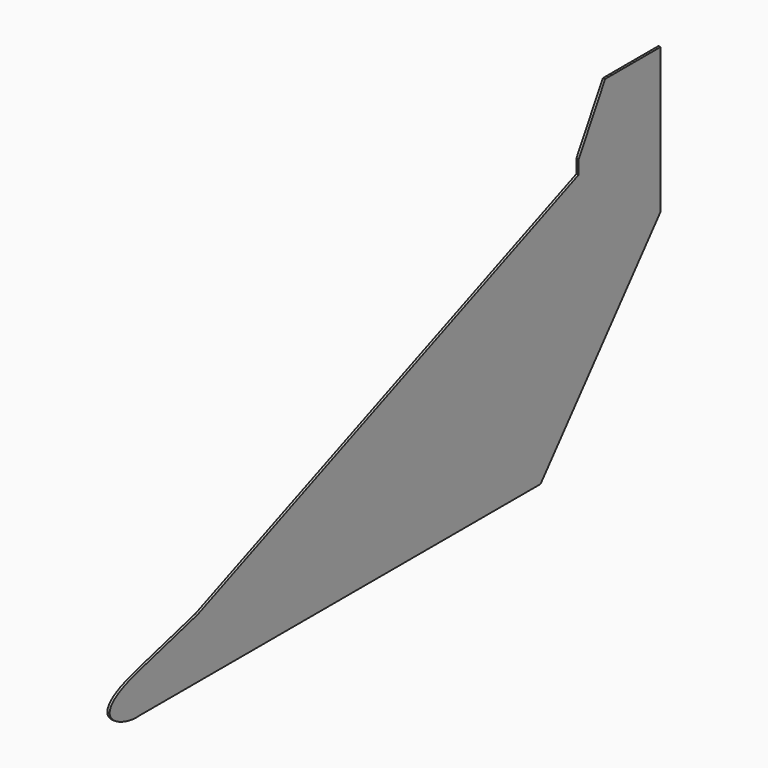
from build123d import *

# Parameters (mm, degrees)
PAD_DEPTH = 1.5


with BuildPart() as part:
    # CopySketch003 → Pad (new body)
    with BuildSketch(Plane.YZ):
        with BuildLine():
            Line((130.835557, 163.989908), (-177.902788, 38.529567))
            Line((-177.902788, 38.529567), (-226.199079, 25.588615))
            add(Edge.make_bspline(
                [(-225, 0), (-241.014422, -1.461855), (-270.021739, 13.743032), (-226.199079, 25.588615)],
                knots=[0, 0, 0, 0, 1, 1, 1, 1], degree=3))
            Line((-225, 0), (100, 0))
            Line((100, 0), (197.335557, 116))
            Line((197.335557, 116), (197.335557, 210))
            Line((197.335557, 210), (152.335557, 210))
            Line((152.335557, 210), (130.835557, 172.760908))
            Line((130.835557, 172.760908), (130.835557, 163.989908))
        make_face()
    extrude(amount=PAD_DEPTH)


solid = part.part
